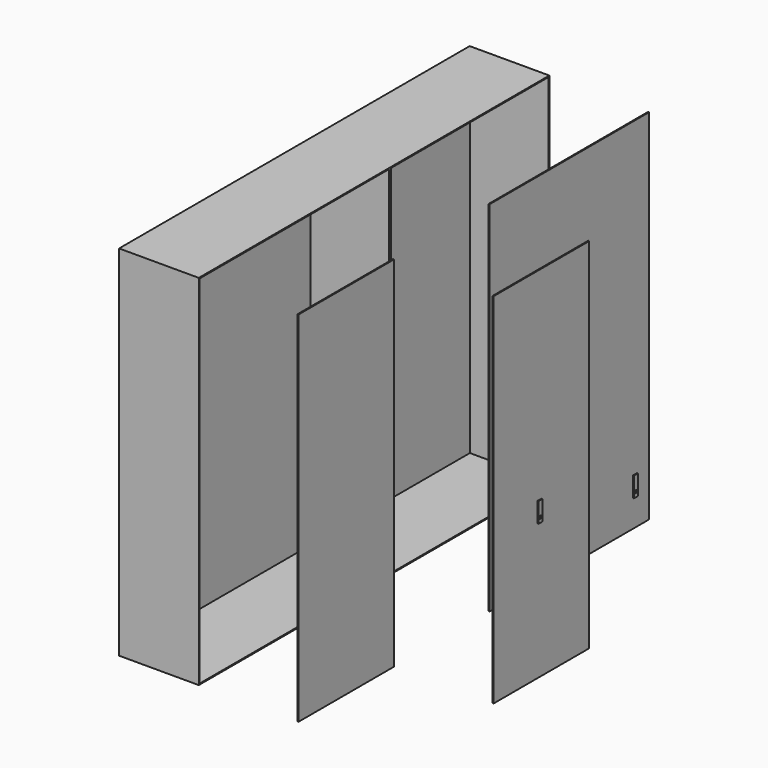
from build123d import *

# Parameters (mm, degrees)
F0_W      = 1200
F0_H      = 1800
F1_DEPTH  = 400
F2_W      = 1000
F2_H      = 1800
F3_DEPTH  = 400
F4_T      = -5
F4_2_T    = -5
F7_W      = 1000
F7_H      = 1800
F8_DEPTH  = 5
F7_W_2    = 600
F10_W     = 600
F10_H     = 1800
F11_DEPTH = 5
F12_W     = 25
F12_H     = 100
F12_R     = 7.11
F13_DEPTH = 5
F15_W     = 25
F15_H     = 100
F15_R     = 7.11
F16_DEPTH = 5


with BuildPart() as f1:
    # F0 (on Right) → F1 (new body)
    with BuildSketch(Plane.YZ):
        with Locations((-600, 900)):
            Rectangle(F0_W, F0_H)
    extrude(amount=-F1_DEPTH)

    # F4
    f4_openings = [f1.faces().sort_by_distance(p)[0] for p in [
        (0, -600, 900),
    ]]
    offset(amount=F4_T, openings=f4_openings)


with BuildPart() as f3:
    # F2 (on Right) → F3 (new body)
    with BuildSketch(Plane.YZ):
        with Locations((500, 900)):
            Rectangle(F2_W, F2_H)
    extrude(amount=-F3_DEPTH)

    # F4#2
    f4_2_openings = [f3.faces().sort_by_distance(p)[0] for p in [
        (0, 500, 900),
    ]]
    offset(amount=F4_2_T, openings=f4_2_openings)


with BuildPart() as f1_1:
    add(f1.part)

    # F5: union F3
    add(f3.part)


with BuildPart() as f8:
    # F7 (on offset) → F8 (new body)
    with BuildSketch(Plane.YZ.offset(500)):
        with Locations((500, 900)):
            Rectangle(F7_W, F7_H)
    extrude(amount=-F8_DEPTH)


with BuildPart() as f8b:
    # F7 (on offset) → F8, piece 2 (new body)
    with BuildSketch(Plane.YZ.offset(500)):
        with Locations((-900, 900)):
            Rectangle(F7_W_2, F7_H)
    extrude(amount=-F8_DEPTH)


with BuildPart() as f11:
    # F10 (on offset) → F11 (new body)
    with BuildSketch(Plane.YZ.offset(1000)):
        with Locations((-300, 900)):
            Rectangle(F10_W, F10_H)
    extrude(amount=-F11_DEPTH)


with BuildPart() as f13:
    # F12 (on face) → F13 (new body)
    with BuildSketch(Plane.YZ.offset(1000)):
        with Locations((-562.5, 900.13)):
            Rectangle(F12_W, F12_H)
        with Locations((-562.5, 875.13)):
            Circle(F12_R, mode=Mode.SUBTRACT)
    extrude(amount=F13_DEPTH)


with BuildPart() as f16:
    # F15 (on offset) → F16 (new body)
    with BuildSketch(Plane.YZ.offset(1200)):
        with Locations((-562.5, 900.13)):
            Rectangle(F15_W, F15_H)
        with Locations((-562.5, 875.13)):
            Circle(F15_R, mode=Mode.SUBTRACT)
    extrude(amount=F16_DEPTH)


with BuildPart() as f16b:
    # F15 (on offset) → F16, piece 2 (new body)
    with BuildSketch(Plane.YZ.offset(1200)):
        with Locations((37.5, 769.27)):
            Rectangle(F15_W, F15_H)
        with Locations((37.5, 744.27)):
            Circle(F15_R, mode=Mode.SUBTRACT)
    extrude(amount=F16_DEPTH)


solid = Compound([f1_1.part, f8.part, f8b.part, f11.part, f16.part, f16b.part])
